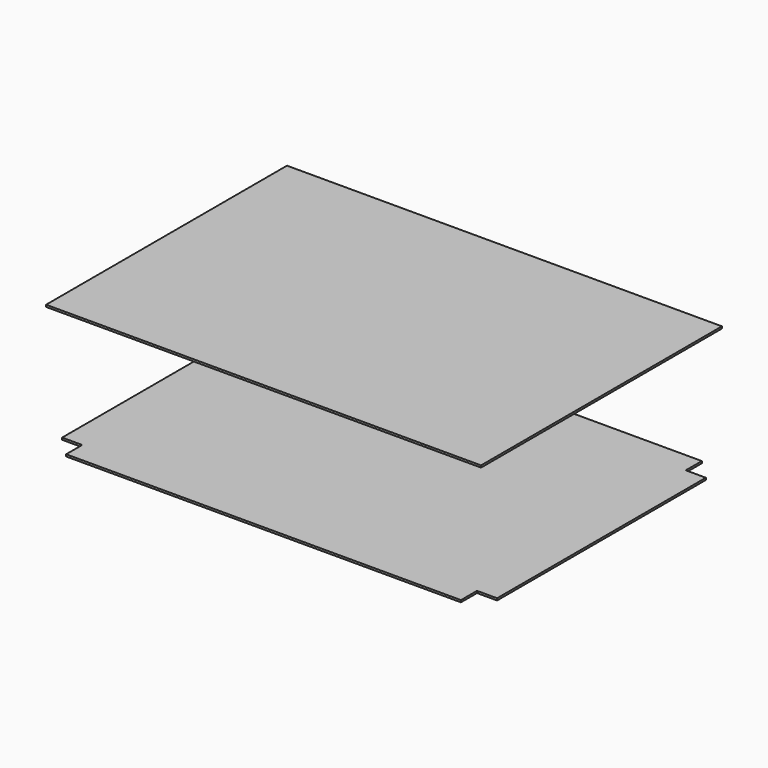
from build123d import *

# Parameters (mm, degrees)
F0_W     = 30
F0_H     = 30
F0_W_2   = 590
F0_H_2   = 390
F1_DEPTH = 3
F2_DEPTH = 3


with BuildPart() as f1:
    # F0 (on Top) → F1 (new body)
    with BuildSketch(Plane.XY):
        with Locations((-310, 210)):
            Rectangle(F0_W, F0_H)
        with Locations((0, 210)):
            Rectangle(F0_W_2, F0_H)
        Rectangle(F0_W_2, F0_H_2)
        with Locations((-310, 0)):
            Rectangle(F0_W, F0_H_2)
        with Locations((-310, -210)):
            Rectangle(F0_W, F0_H)
        with Locations((0, -210)):
            Rectangle(F0_W_2, F0_H)
        with Locations((310, 0)):
            Rectangle(F0_W, F0_H_2)
        with Locations((310, 210)):
            Rectangle(F0_W, F0_H)
        with Locations((310, -210)):
            Rectangle(F0_W, F0_H)
    extrude(amount=F1_DEPTH)


with BuildPart() as f2:
    # F0 (on Top) → F2 (new body)
    with BuildSketch(Plane.XY):
        Rectangle(F0_W_2, F0_H_2)
        with Locations((-310, 0)):
            Rectangle(F0_W, F0_H_2)
        with Locations((0, 210)):
            Rectangle(F0_W_2, F0_H)
        with Locations((0, -210)):
            Rectangle(F0_W_2, F0_H)
        with Locations((310, 0)):
            Rectangle(F0_W, F0_H_2)
    extrude(amount=F2_DEPTH)


with BuildPart() as f1_1:
    # F3: moved
    add(f1.part.moved(Location((0, 0, 187))))


solid = Compound([f2.part, f1_1.part])
